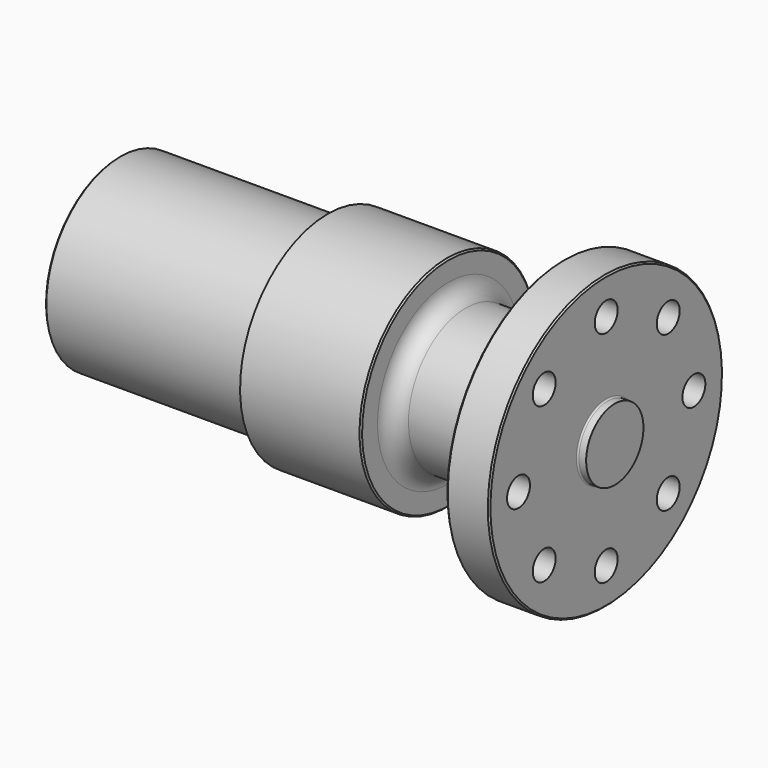
from build123d import *

# Parameters (mm, degrees)
F2_SIZE  = 0.5
F3_R     = 0.5
F4_R     = 5
F5_DEPTH = 15


with BuildPart() as f1:
    # F0 (on Front) → F1 (revolve)
    with BuildSketch(Plane.XZ):
        with BuildLine():
            Line((0, 32.35), (0, 0))
            Line((0, 0), (173, 0))
            Line((173, 0), (173, 12.5))
            Line((173, 12.5), (170, 12.5))
            Line((170, 12.5), (170, 51))
            Line((170, 51), (155, 51))
            Line((155, 51), (155, 31))
            ThreePointArc((155, 31), (153.242641, 26.757359), (149, 25))
            Line((149, 25), (121, 25))
            ThreePointArc((121, 25), (116.757359, 26.757359), (115, 31))
            Line((115, 31), (115, 38.25))
            Line((115, 38.25), (72.829016, 38.25))
            Line((72.829016, 38.25), (70, 33.35))
            Line((70, 33.35), (70, 32.35))
            Line((70, 32.35), (0, 32.35))
        make_face()
    revolve(axis=Axis((86.5, 0, 0), (1, 0, 0)))

    # F2
    f2_edges = [f1.edges().sort_by_distance(p)[0] for p in [
        (0, 0, -32.35),
        (115, 0, -38.25),
        (155, 0, -51),
        (170, 0, -51),
    ]]
    chamfer(f2_edges, length=F2_SIZE)

    # F3
    f3_edges = [f1.edges().sort_by_distance(p)[0] for p in [
        (70, 0, -32.35),
        (170, 0, -12.5),
    ]]
    fillet(f3_edges, radius=F3_R)

    # F4 (on face) → F5 (cut, through all)
    with BuildSketch(Plane.YZ.offset(170)):
        with Locations((0, 38.25)):
            Circle(F4_R)
        with Locations((-27.046834, 27.046834)):
            Circle(F4_R)
        with Locations((-38.25, 0)):
            Circle(F4_R)
        with Locations((-27.046834, -27.046834)):
            Circle(F4_R)
        with Locations((0, -38.25)):
            Circle(F4_R)
        with Locations((27.046834, -27.046834)):
            Circle(F4_R)
        with Locations((38.25, 0)):
            Circle(F4_R)
        with Locations((27.046834, 27.046834)):
            Circle(F4_R)
    extrude(amount=-F5_DEPTH, mode=Mode.SUBTRACT)


solid = f1.part
